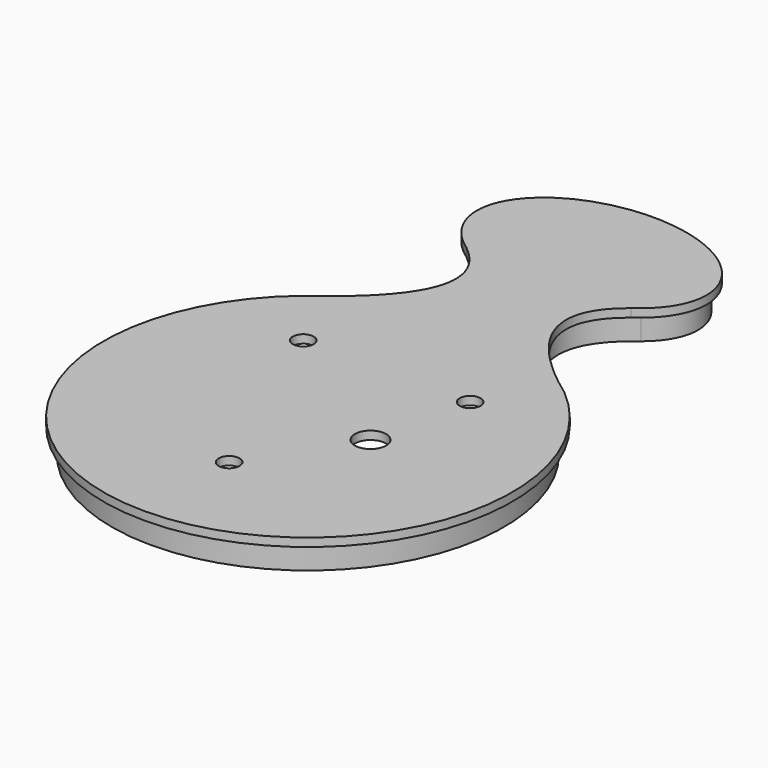
from build123d import *

# Parameters (mm, degrees)
PAD006_DEPTH    = 2
PAD007_DEPTH    = 8
SKETCH016_R     = 2.5
SKETCH016_R_2   = 3.75
POCKET003_DEPTH = 8.001


with BuildPart() as part:
    # Sketch013 → Pad006 (new body)
    with BuildSketch(Plane.XY):
        with BuildLine():
            ThreePointArc((-31.601416, 37.447971), (0.14834, -48.999775), (31.374102, 37.63862))
            add(Edge.make_bspline(
                [(19.736906, 72.117588), (2.37782, 58.411312), (31.374102, 37.63862)],
                knots=[0, 0, 0, 1, 1, 1], degree=2, weights=[0.989264, 1, 1]))
            add(Edge.make_bspline(
                [(19.736906, 72.117588), (64.998138, 103.5), (0, 103.5), (-64.998138, 103.5), (-19.736906, 72.117588)],
                knots=[5.512891, 5.512891, 5.512891, 7.853982, 7.853982, 10.195072, 10.195072, 10.195072], degree=2, weights=[1, 0.389649, 1, 0.389649, 1]))
            add(Edge.make_bspline(
                [(-19.736906, 72.117588), (-2.37782, 58.411312), (-31.601416, 37.447971)],
                knots=[0, 0, 0, 1, 1, 1], degree=2))
        make_face()
    extrude(amount=PAD006_DEPTH)

    # Sketch017 → Pad007 (join)
    with BuildSketch(Plane.XY.offset(2)):
        with BuildLine():
            add(Edge.make_bspline(
                [(19.970939, 74.740258), (53.708474, 102.235842), (-0.537125, 101.496339), (-54.782724, 100.756837), (-19.285395, 74.205097)],
                knots=[5.612143, 5.612143, 5.612143, 7.875047, 7.875047, 10.137951, 10.137951, 10.137951], degree=2, weights=[1, 0.425346, 1, 0.425346, 1]))
            add(Edge.make_bspline(
                [(-19.285395, 74.205097), (1.40607, 59), (-30.093518, 36.102357)],
                knots=[0, 0, 0, 1, 1, 1], degree=2))
            ThreePointArc((-30.093518, 36.102357), (0, -47), (30.093518, 36.102357))
            add(Edge.make_bspline(
                [(19.970939, 74.740258), (-1.40607, 59), (30.093518, 36.102357)],
                knots=[0, 0, 0, 1, 1, 1], degree=2, weights=[0.989264, 1, 1]))
        make_face()
        with BuildLine():
            add(Edge.make_bspline(
                [(19.970651, 77.357323), (42.940421, 100.20824), (-0.62343, 99.494897), (-44.187281, 98.781553), (-19.285576, 76.714515)],
                knots=[5.728023, 5.728023, 5.728023, 7.880514, 7.880514, 10.033004, 10.033004, 10.033004], degree=2, weights=[1, 0.474637, 1, 0.474637, 1]))
            add(Edge.make_bspline(
                [(-19.285576, 76.714515), (4.066769, 59), (-26.870413, 36.096827)],
                knots=[0, 0, 0, 1, 1, 1], degree=2))
            ThreePointArc((-26.870413, 36.096827), (0, -45), (26.870413, 36.096827))
            add(Edge.make_bspline(
                [(19.970651, 77.357323), (-4.066769, 59), (26.870413, 36.096827)],
                knots=[0, 0, 0, 1, 1, 1], degree=2, weights=[0.989264, 1, 1]))
        make_face(mode=Mode.SUBTRACT)
    extrude(amount=-PAD007_DEPTH)

    # Sketch016 → Pocket003 (cut, through all)
    with BuildSketch(Plane.XY.offset(2)):
        with Locations((0, -23.6)):
            Circle(SKETCH016_R)
        with Locations((-20, 23.6)):
            Circle(SKETCH016_R)
        with Locations((20, 23.6)):
            Circle(SKETCH016_R)
        with Locations((15, 0)):
            Circle(SKETCH016_R_2)
    extrude(amount=-POCKET003_DEPTH, mode=Mode.SUBTRACT)


with BuildPart() as part_1:
    # Body003 placement: moved
    add(part.part.moved(Location((0, 0, 22))))


solid = part_1.part
